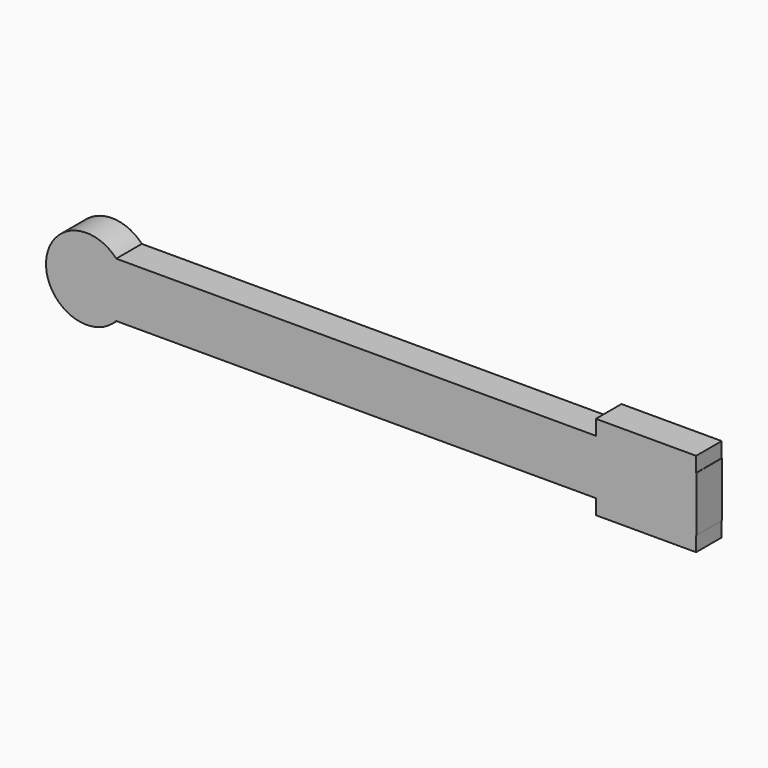
from build123d import *

# Parameters (mm, degrees)
F0_W     = 362.554728
F0_H     = 32.70875
F1_R     = 24.119355
F1_W     = 59.741348
F1_H     = 50.58742
F2_DEPTH = 19.05


with BuildPart() as f2:
    # F0 (on Front) + F1 (on face) → F2 (new body)
    with BuildSketch(Plane.XZ):
        Rectangle(F0_W, F0_H)
    with BuildSketch(Plane.XZ):
        with Locations((-182.114676, 0)):
            Circle(F1_R)
        with Locations((151.280463, 0)):
            Rectangle(F1_W, F1_H)
    extrude(amount=F2_DEPTH)

    # F3: union 


solid = f2.part
